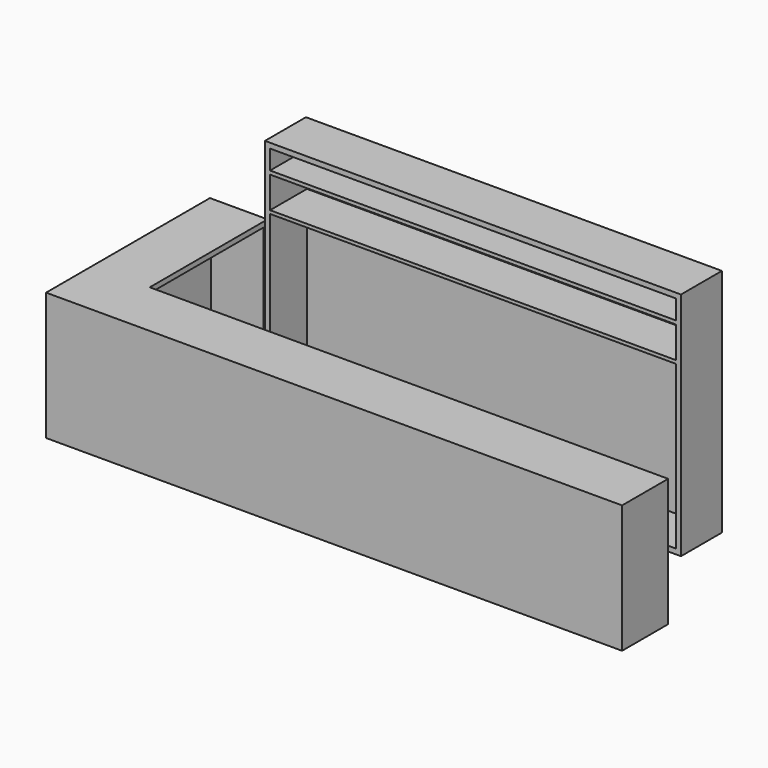
from build123d import *

# Parameters (mm, degrees)
F1_DEPTH = 1000
F0_W     = 3250
F0_H     = 400
F2_DEPTH = 1800
F3_T     = -40
F4_T     = -40
F5_W     = 3170
F5_H     = 25.659084
F5_H_2   = 27.991772
F6_DEPTH = 360


with BuildPart() as f1:
    # F0 (on Top) → F1 (new body)
    with BuildSketch(Plane.XY):
        Polygon((2966.408193, 404.258921), (-1083.591807, 404.258921), (-1083.591807, 1554.258921), (-1533.591807, 1554.258921), (-1533.591807, 404.258921), (-1533.591807, -45.741079), (2966.408193, -45.741079), align=None)
    extrude(amount=F1_DEPTH)

    # F4
    f4_openings = [f1.faces().sort_by_distance(p)[0] for p in [
        (941.408193, 404.258921, 500),
        (-1083.591807, 979.258921, 500),
    ]]
    offset(amount=F4_T, openings=f4_openings)


with BuildPart() as f2:
    # F0 (on Top) → F2 (new body)
    with BuildSketch(Plane.XY):
        with Locations((841.408193, 1354.258921)):
            Rectangle(F0_W, F0_H)
    extrude(amount=F2_DEPTH)

    # F3
    f3_openings = [f2.faces().sort_by_distance(p)[0] for p in [
        (841.408193, 1154.258921, 900),
    ]]
    offset(amount=F3_T, openings=f3_openings)

    # F5 (on face) → F6 (join)
    with BuildSketch(Plane.XZ.offset(-1514.258921)):
        with Locations((841.408193, 1323.196769)):
            Rectangle(F5_W, F5_H)
        with Locations((841.408193, 1594.949603)):
            Rectangle(F5_W, F5_H_2)
    extrude(amount=F6_DEPTH)


solid = Compound([f1.part, f2.part])
